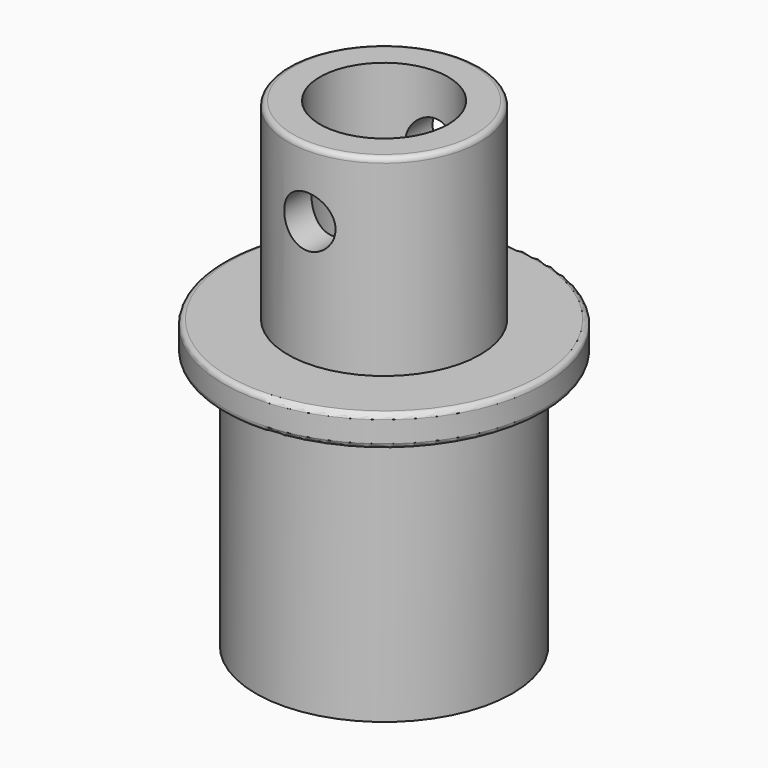
from build123d import *

# Parameters (mm, degrees)
F0_R      = 6.35
F1_DEPTH  = 12.7
F2_R      = 7.9375
F3_DEPTH  = 1.55575
F4_R      = 4.7625
F5_DEPTH  = 9.525
F6_R      = 0.254
F7_R      = 1.27
F8_DEPTH  = 12.7
F9_R      = 3.175
F10_DEPTH = 23.78175


with BuildPart() as f1:
    # F0 (on Top) → F1 (new body)
    with BuildSketch(Plane.XY):
        Circle(F0_R)
    extrude(amount=-F1_DEPTH)

    # F2 (on face) → F3 (join)
    with BuildSketch(Plane.XY):
        Circle(F2_R)
    extrude(amount=F3_DEPTH)

    # F4 (on face) → F5 (join)
    with BuildSketch(Plane.XY.offset(1.55575)):
        Circle(F4_R)
    extrude(amount=F5_DEPTH)

    # F6
    f6_edges = [f1.edges().sort_by_distance(p)[0] for p in [
        (-7.9375, 0, 1.55575),
        (-7.9375, 0, 0),
        (-4.7625, 0, 11.08075),
    ]]
    fillet(f6_edges, radius=F6_R)

    # F7 (on Front) → F8 (cut, symmetric)
    with BuildSketch(Plane.XZ):
        with Locations((0, 7.744468)):
            Circle(F7_R)
    extrude(amount=F8_DEPTH, both=True, mode=Mode.SUBTRACT)

    # F9 (on face) → F10 (cut, through all)
    with BuildSketch(Plane.XY.offset(11.08075)):
        Circle(F9_R)
    extrude(amount=-F10_DEPTH, mode=Mode.SUBTRACT)


solid = f1.part
